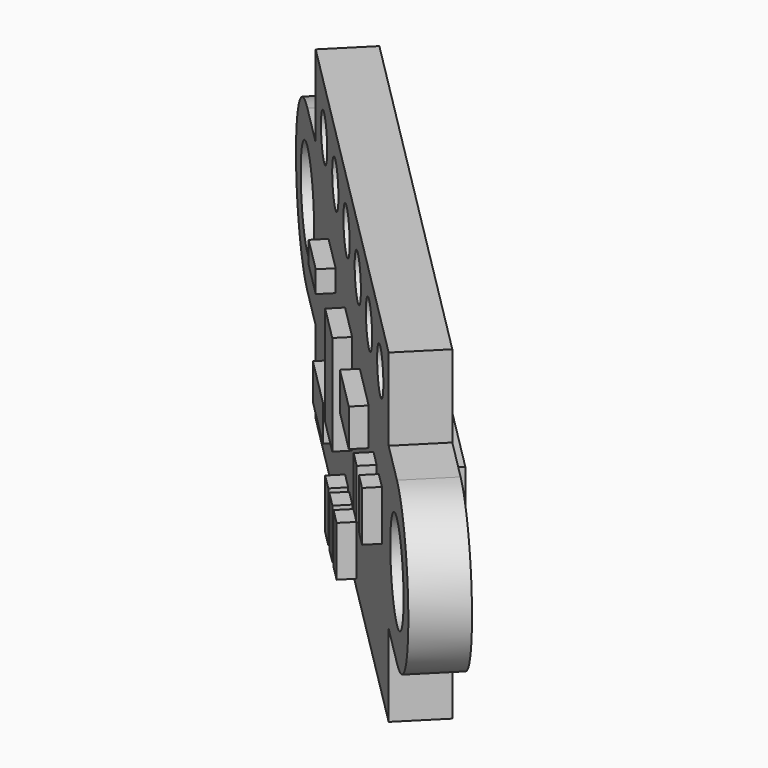
from build123d import *

# Parameters (mm, degrees)
PAD046_DEPTH            = 1.6
SKETCH119_R             = 1.5
POCKET060_DEPTH         = 1.6
SKETCH120_W             = 4.4
SKETCH120_H             = 2.35
PAD047_DEPTH            = 1
SKETCH121_W             = 2.27
SKETCH121_H             = 1.15
SKETCH121_W_2           = 1.6
SKETCH121_H_2           = 3.2
SKETCH121_W_3           = 2
SKETCH121_H_3           = 1.2
SKETCH121_W_4           = 0.7
SKETCH121_H_4           = 1.6
SKETCH121_H_5           = 0.7
PAD048_DEPTH            = 0.5
SKETCH122_R             = 0.7
POCKET061_DEPTH         = 1.6
BODY029_ROLL_ANGLE      = 180
BODY029_PLACEMENT_ANGLE = -45


with BuildPart() as part:
    # Sketch118 → Pad046 (new body)
    with BuildSketch(Plane.XZ):
        Polygon((-8.25, -5.2), (8.25, -5.2), (8.25, -2.575), (12.75, -2.575), (12.75, 2.575), (8.25, 2.575), (8.25, 5.2), (-8.25, 5.2), (-8.25, 2.575), (-12.75, 2.575), (-12.75, -2.575), (-8.25, -2.575), align=None)
    extrude(amount=PAD046_DEPTH)

    # Sketch119 (on Face14 of Pad046) → Pocket060 (cut)
    with BuildSketch(Plane.XZ.offset(1.6)):
        with Locations((-10.125, 0)):
            Circle(SKETCH119_R)
        with Locations((10.125, 0)):
            Circle(SKETCH119_R)
        with BuildLine():
            Line((-12.755, 2.575), (-12.755, -2.575))
            Line((-12.755, -2.575), (-10.125, -2.575))
            ThreePointArc((-10.125, 2.575), (-12.7, 0), (-10.125, -2.575))
            Line((-10.125, 2.575), (-12.755, 2.575))
        make_face()
        with BuildLine():
            Line((10.125, -2.575), (12.755, -2.575))
            Line((12.755, -2.575), (12.755, 2.575))
            Line((12.755, 2.575), (10.125, 2.575))
            ThreePointArc((10.125, -2.575), (12.7, 0), (10.125, 2.575))
        make_face()
    extrude(amount=-POCKET060_DEPTH, mode=Mode.SUBTRACT)

    # Sketch120 (on Face4 of Pocket060) → Pad047 (join)
    with BuildSketch(Plane.XZ.offset(1.6)):
        with Locations((0, 2.475)):
            Rectangle(SKETCH120_W, SKETCH120_H)
    extrude(amount=PAD047_DEPTH)

    # Sketch121 (on Face2 of Pad047) → Pad048 (join)
    with BuildSketch(Plane(origin=(0, 0, 0), x_dir=(1, 0, 0), z_dir=(0, 1, 0))):
        with Locations((-3.245, -2.125)):
            Rectangle(SKETCH121_W, SKETCH121_H)
        with Locations((-0.8, -0.23)):
            Rectangle(SKETCH121_W_2, SKETCH121_H_2)
        with Locations((2.73, 0.77)):
            Rectangle(SKETCH121_W_3, SKETCH121_H_3)
        with Locations((-1.25, -4.13)):
            Rectangle(SKETCH121_W_4, SKETCH121_H_4)
        with Locations((-0.31, -4.13)):
            Rectangle(SKETCH121_W_4, SKETCH121_H_4)
        with Locations((0.63, -4.13)):
            Rectangle(SKETCH121_W_4, SKETCH121_H_4)
        with Locations((-4.54, 1.02)):
            Rectangle(SKETCH121_W_2, SKETCH121_H_5)
        with Locations((5.18, -0.17)):
            Rectangle(SKETCH121_W_4, SKETCH121_H_4)
        with Locations((6.38, -0.17)):
            Rectangle(SKETCH121_W_4, SKETCH121_H_4)
    extrude(amount=PAD048_DEPTH)

    # Sketch122 (on Face2 of Pad048) → Pocket061 (cut)
    with BuildSketch(Plane(origin=(0, 0, 0), x_dir=(1, 0, 0), z_dir=(0, 1, 0))):
        with Locations((-6.35, 3.7)):
            Circle(SKETCH122_R)
        with Locations((-3.81, 3.7)):
            Circle(SKETCH122_R)
        with Locations((-1.27, 3.7)):
            Circle(SKETCH122_R)
        with Locations((1.27, 3.7)):
            Circle(SKETCH122_R)
        with Locations((3.81, 3.7)):
            Circle(SKETCH122_R)
        with Locations((6.35, 3.7)):
            Circle(SKETCH122_R)
    extrude(amount=-POCKET061_DEPTH, mode=Mode.SUBTRACT)


with BuildPart() as part_1:
    # Body029 roll: moved
    add(part.part.rotate(Axis((0, 0, 0), (1, 0, 0)), BODY029_ROLL_ANGLE))


with BuildPart() as part_2:
    # Body029 placement: moved
    add(part_1.part.moved(Location((118.272971, 26.977029, 44.5))).rotate(Axis((118.272971, 26.977029, 44.5), (0, 0, 1)), BODY029_PLACEMENT_ANGLE))


solid = part_2.part
